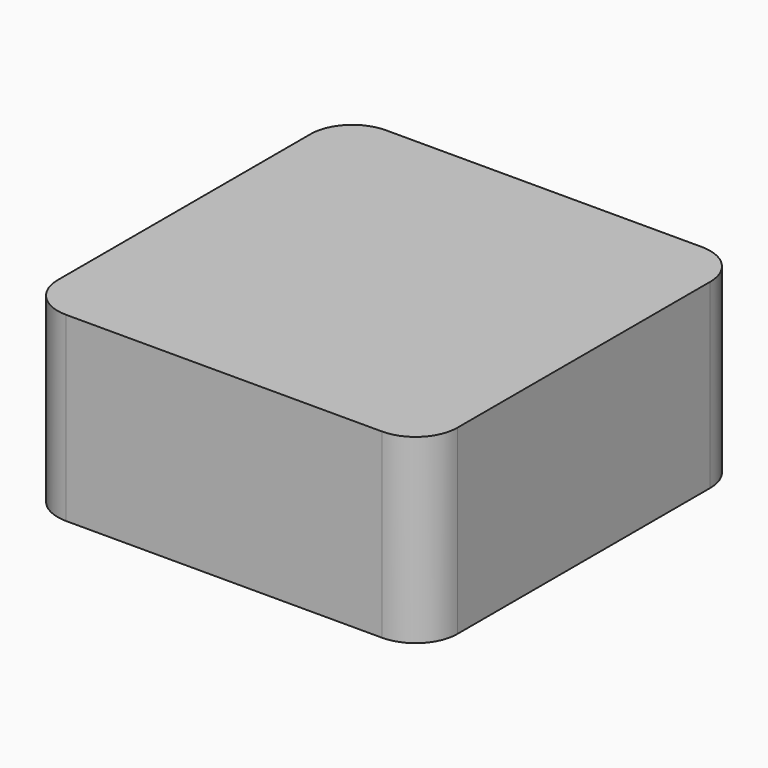
from build123d import *

# Parameters (mm, degrees)
F1_DEPTH = 25
F3_DEPTH = 1


with BuildPart() as f1:
    # F0 (on Top) → F1 (new body)
    with BuildSketch(Plane.XY):
        with BuildLine():
            Line((22.6195406914, 28.6195406914), (-22.6195406914, 28.6195406914))
            ThreePointArc((-22.6195406914, 28.6195406914), (-26.8621813785, 26.8621813785), (-28.6195406914, 22.6195406914))
            Line((-28.6195406914, 22.6195406914), (-28.6195406914, -22.6195406914))
            ThreePointArc((-28.6195406914, -22.6195406914), (-26.8621813785, -26.8621813785), (-22.6195406914, -28.6195406914))
            Line((-22.6195406914, -28.6195406914), (22.6195406914, -28.6195406914))
            ThreePointArc((22.6195406914, -28.6195406914), (26.8621813785, -26.8621813785), (28.6195406914, -22.6195406914))
            Line((28.6195406914, -22.6195406914), (28.6195406914, 22.6195406914))
            ThreePointArc((28.6195406914, 22.6195406914), (26.8621813785, 26.8621813785), (22.6195406914, 28.6195406914))
        make_face()
        with BuildLine():
            ThreePointArc((-27.6195406914, 22.6195406914), (-26.1550745973, 26.1550745973), (-22.6195406914, 27.6195406914))
            Line((-22.6195406914, 27.6195406914), (22.6195406914, 27.6195406914))
            ThreePointArc((22.6195406914, 27.6195406914), (26.1550745973, 26.1550745973), (27.6195406914, 22.6195406914))
            Line((27.6195406914, 22.6195406914), (27.6195406914, -22.6195406914))
            ThreePointArc((27.6195406914, -22.6195406914), (26.1550745973, -26.1550745973), (22.6195406914, -27.6195406914))
            Line((22.6195406914, -27.6195406914), (-22.6195406914, -27.6195406914))
            ThreePointArc((-22.6195406914, -27.6195406914), (-26.1550745973, -26.1550745973), (-27.6195406914, -22.6195406914))
            Line((-27.6195406914, -22.6195406914), (-27.6195406914, 22.6195406914))
        make_face(mode=Mode.SUBTRACT)
    extrude(amount=F1_DEPTH)

    # F2 (on face) → F3 (join)
    with BuildSketch(Plane.XY.offset(25)):
        with BuildLine():
            ThreePointArc((22.6195406914, -28.6195406914), (26.8621813785, -26.8621813785), (28.6195406914, -22.6195406914))
            Line((28.6195406914, -22.6195406914), (28.6195406914, 22.6195406914))
            ThreePointArc((28.6195406914, 22.6195406914), (26.8621813785, 26.8621813785), (22.6195406914, 28.6195406914))
            Line((22.6195406914, 28.6195406914), (-22.6195406914, 28.6195406914))
            ThreePointArc((-22.6195406914, 28.6195406914), (-26.8621813785, 26.8621813785), (-28.6195406914, 22.6195406914))
            Line((-28.6195406914, 22.6195406914), (-28.6195406914, -22.6195406914))
            ThreePointArc((-28.6195406914, -22.6195406914), (-26.8621813785, -26.8621813785), (-22.6195406914, -28.6195406914))
            Line((-22.6195406914, -28.6195406914), (22.6195406914, -28.6195406914))
        make_face()
        with BuildLine():
            Line((-27.6195406914, -22.6195406914), (-27.6195406914, 22.6195406914))
            ThreePointArc((-27.6195406914, 22.6195406914), (-26.1550745973, 26.1550745973), (-22.6195406914, 27.6195406914))
            Line((-22.6195406914, 27.6195406914), (22.6195406914, 27.6195406914))
            ThreePointArc((22.6195406914, 27.6195406914), (26.1550745973, 26.1550745973), (27.6195406914, 22.6195406914))
            Line((27.6195406914, 22.6195406914), (27.6195406914, -22.6195406914))
            ThreePointArc((27.6195406914, -22.6195406914), (26.1550745973, -26.1550745973), (22.6195406914, -27.6195406914))
            Line((22.6195406914, -27.6195406914), (-22.6195406914, -27.6195406914))
            ThreePointArc((-22.6195406914, -27.6195406914), (-26.1550745973, -26.1550745973), (-27.6195406914, -22.6195406914))
        make_face(mode=Mode.SUBTRACT)
        with BuildLine():
            ThreePointArc((-22.6195406914, 27.6195406914), (-26.1550745973, 26.1550745973), (-27.6195406914, 22.6195406914))
            Line((-27.6195406914, 22.6195406914), (-27.6195406914, -22.6195406914))
            ThreePointArc((-27.6195406914, -22.6195406914), (-26.1550745973, -26.1550745973), (-22.6195406914, -27.6195406914))
            Line((-22.6195406914, -27.6195406914), (22.6195406914, -27.6195406914))
            ThreePointArc((22.6195406914, -27.6195406914), (26.1550745973, -26.1550745973), (27.6195406914, -22.6195406914))
            Line((27.6195406914, -22.6195406914), (27.6195406914, 22.6195406914))
            ThreePointArc((27.6195406914, 22.6195406914), (26.1550745973, 26.1550745973), (22.6195406914, 27.6195406914))
            Line((22.6195406914, 27.6195406914), (-22.6195406914, 27.6195406914))
        make_face()
    extrude(amount=F3_DEPTH)


solid = f1.part
